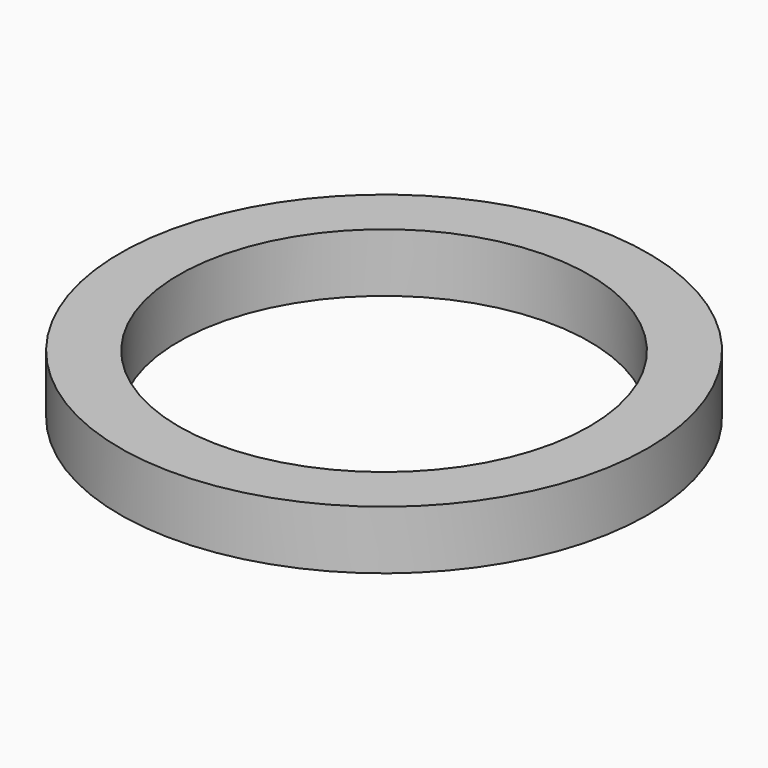
from build123d import *

# Parameters (mm, degrees)
CYLINDER006_R     = 17.5
CYLINDER006_DEPTH = 10
CYLINDER005_R     = 22.5
CYLINDER005_DEPTH = 5


with BuildPart() as cylinder006:
    # Cylinder006 → Cylinder006 (new body)
    with BuildSketch(Plane.XY):
        Circle(CYLINDER006_R)
    extrude(amount=CYLINDER006_DEPTH)


with BuildPart() as cut005:
    # Cylinder005 → Cylinder005 (new body)
    with BuildSketch(Plane.XY):
        Circle(CYLINDER005_R)
    extrude(amount=CYLINDER005_DEPTH)

    # Cut005: cut Cylinder006
    add(cylinder006.part, mode=Mode.SUBTRACT)


solid = cut005.part
